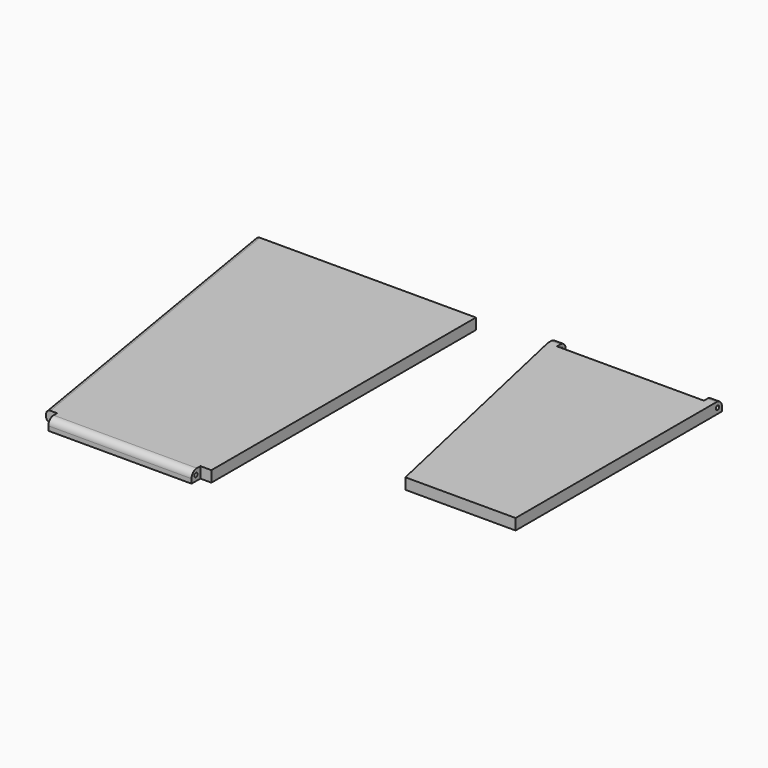
from build123d import *

# Parameters (mm, degrees)
F0_W      = 25
F0_H      = 112
F1_DEPTH  = 5
F2_W      = 25
F2_H      = 150
F3_DEPTH  = 5
F4_R      = 2
F5_W      = 75
F5_H      = 5
F6_DEPTH  = 5
F7_W      = 65
F7_H      = 5
F8_DEPTH  = 5
F9_W      = 66.702231
F9_H      = 7.951083
F10_DEPTH = 5
F11_R     = 0.9
F12_DEPTH = 100
F13_R     = 0.9
F14_DEPTH = 125
F15_R     = 3
F15_2_R   = 3


with BuildPart() as f1:
    # F0 (on Top) → F1 (new body)
    with BuildSketch(Plane.XY):
        Polygon((20.677915, 75.999999), (45.677915, -36.000001), (70.677915, -36.000001), (70.677915, 75.999999), align=None)
        with Locations((83.177915, 19.999999)):
            Rectangle(F0_W, F0_H)
    extrude(amount=F1_DEPTH)

    # F5 (on face) → F6 (join)
    with BuildSketch(Plane(origin=(0, 75.999999, 0), x_dir=(-1, 0, 0), z_dir=(0, 1, 0))):
        with Locations((-58.177915, 2.5)):
            Rectangle(F5_W, F5_H)
    extrude(amount=F6_DEPTH)

    # F9 (on face) → F10 (cut)
    with BuildSketch(Plane(origin=(0, 80.999999, 0), x_dir=(-1, 0, 0), z_dir=(0, 1, 0))):
        with Locations((-58.177915, 3.814935)):
            Rectangle(F9_W, F9_H)
    extrude(amount=-F10_DEPTH, mode=Mode.SUBTRACT)

    # F13 (on face) → F14 (cut)
    with BuildSketch(Plane(origin=(20.677915, 0, 0), x_dir=(0, -1, 0), z_dir=(-1, 0, 0))):
        with Locations((-78.499999, 2.5)):
            Circle(F13_R)
    extrude(amount=-F14_DEPTH, mode=Mode.SUBTRACT)

    # F15
    f15_edges = [f1.edges().sort_by_distance(p)[0] for p in [
        (22.752357, 80.999999, 5),
        (93.603473, 80.999999, 5),
    ]]
    fillet(f15_edges, radius=F15_R)


with BuildPart() as f3:
    # F2 (on Top) → F3 (new body)
    with BuildSketch(Plane.XY):
        Polygon((-36.392649, 75.334491), (-111.392649, 75.334491), (-86.392649, -74.665509), (-36.392649, -74.665509), align=None)
        with Locations((-23.892649, 0.334491)):
            Rectangle(F2_W, F2_H)
    extrude(amount=F3_DEPTH)

    # F4
    f4_edges = [f3.edges().sort_by_distance(p)[0] for p in [
        (-98.892649, 0.334491, 5),
        (-98.892649, 0.334491, 0),
    ]]
    fillet(f4_edges, radius=F4_R)

    # F7 (on face) → F8 (join)
    with BuildSketch(Plane.XZ.offset(74.665509)):
        with Locations((-48.892649, 2.5)):
            Rectangle(F7_W, F7_H)
    extrude(amount=F8_DEPTH)

    # F11 (on face) → F12 (cut)
    with BuildSketch(Plane.YZ.offset(-16.392649)):
        with Locations((-77.165509, 2.5)):
            Circle(F11_R)
    extrude(amount=-F12_DEPTH, mode=Mode.SUBTRACT)

    # F15#2
    f15_2_edges = [f3.edges().sort_by_distance(p)[0] for p in [
        (-48.892649, -79.665509, 5),
    ]]
    fillet(f15_2_edges, radius=F15_2_R)


solid = Compound([f1.part, f3.part])
